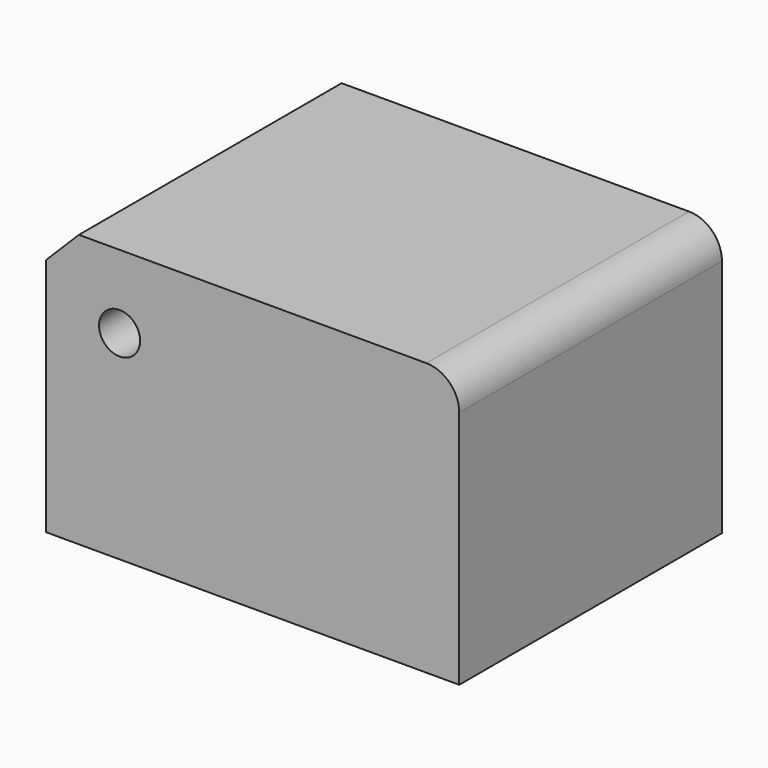
from build123d import *

# Parameters (mm, degrees)
F0_W     = 63.917339
F0_H     = 42.158244
F1_DEPTH = 50.8
F3_D     = 6.35
F4_R     = 5.08
F5_SIZE  = 5.08


with BuildPart() as f1:
    # F0 (on Front) → F1 (new body)
    with BuildSketch(Plane.XZ):
        with Locations((4.646473, 2.719886)):
            Rectangle(F0_W, F0_H)
    extrude(amount=F1_DEPTH)

    # F3 (through all)
    with Locations(Plane.XZ.offset(50.8)):
        with Locations((-15.938915, 12.444086)):
            Hole(F3_D / 2)

    # F4
    f4_edges = [f1.edges().sort_by_distance(p)[0] for p in [
        (36.605142, -25.4, 23.799008),
    ]]
    fillet(f4_edges, radius=F4_R)

    # F5
    f5_edges = [f1.edges().sort_by_distance(p)[0] for p in [
        (-27.312197, -25.4, 23.799008),
    ]]
    chamfer(f5_edges, length=F5_SIZE)


solid = f1.part
